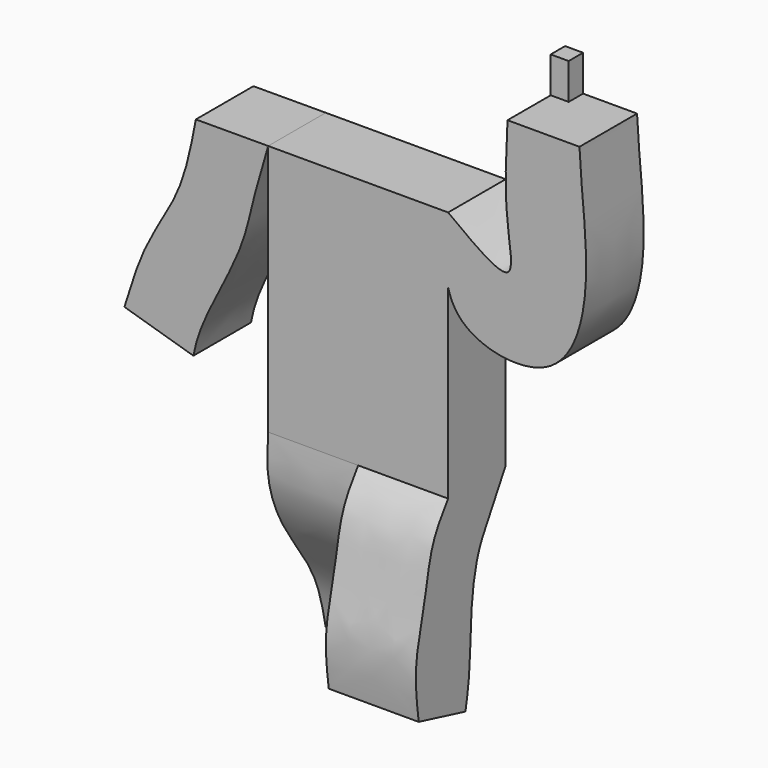
from build123d import *

# Parameters (mm, degrees)
F1_DEPTH = 8
F3_DEPTH = 10
F5_DEPTH = 10
F6_W     = 2
F6_H     = 4
F7_DEPTH = 2


with BuildPart() as f1:
    # F0 (on Front) → F1 (new body)
    with BuildSketch(Plane.XZ):
        Polygon((10, 14), (-10, 14), (-10, 13.9871324164), align=None)
        with BuildLine():
            Line((-10, 13.9871324164), (-10, 14))
            add(Edge.make_bspline(
                [(-10, 14), (-10.0013069916, 13.9957099885), (-10.0026139149, 13.9914199529), (-10.0039207687, 13.9871298939)],
                knots=[0, 0, 0, 0, 0.0005634153, 0.0005634153, 0.0005634153, 0.0005634153], degree=3))
            Line((-10.0039207687, 13.9871298939), (-10, 13.9871324164))
        make_face()
        with BuildLine():
            add(Edge.make_bspline(
                [(-10, 14), (-10.0013069916, 13.9957099885), (-10.0026139149, 13.9914199529), (-10.0039207687, 13.9871298939)],
                knots=[0, 0, 0, 0, 0.0005634153, 0.0005634153, 0.0005634153, 0.0005634153], degree=3))
            Line((-10, 14), (-18.0412381887, 13.9819588512))
            Line((-18.0412381887, 13.9819588512), (-10.0039207687, 13.9871298939))
        make_face()
        with BuildLine():
            add(Edge.make_bspline(
                [(16.5979396552, 25.1705870032), (16.4242079195, 21.7814034546), (16.1292929338, 16.0281597324), (17.954552315, 8.034475712), (12.8387475955, 11.8710784645), (10, 14)],
                knots=[0, 0, 0, 0, 0.3895409215, 0.6612577422, 1, 1, 1, 1], degree=3))
            Line((10, 14), (10, 6.6676748447))
            add(Edge.make_bspline(
                [(10, 6.6676748447), (10.2523378817, 5.6781345951), (12.0047533576, 2.0571975496), (22.7187939676, 0.2071940627), (26.2944872886, 12.0093761919), (24.7818586393, 20.5559387988), (24.5979396552, 25.1705870032)],
                knots=[0.1642768485, 0.1642768485, 0.1642768485, 0.1642768485, 0.2408562316, 0.4776886549, 0.7182430468, 1, 1, 1, 1], degree=3))
            Line((24.5979396552, 25.1705870032), (16.5979396552, 25.1705870032))
        make_face()
        with BuildLine():
            Line((10, 6.6676748447), (10, 14))
            add(Edge.make_bspline(
                [(10, 14), (9.7266030818, 11.3954202783), (9.4586888759, 8.790420511), (10, 6.6676748447)],
                knots=[0, 0, 0, 0, 0.1642768485, 0.1642768485, 0.1642768485, 0.1642768485], degree=3))
        make_face()
        with BuildLine():
            add(Edge.make_bspline(
                [(10, 14), (9.7266030818, 11.3954202783), (9.4586888759, 8.790420511), (10, 6.6676748447)],
                knots=[0, 0, 0, 0, 0.1642768485, 0.1642768485, 0.1642768485, 0.1642768485], degree=3))
            Line((10, 14), (-10, 13.9871324164))
            Line((-10, 13.9871324164), (-10, -14))
            Line((-10, -14), (10, -14))
            Line((10, -14), (10, 6.6676748447))
        make_face()
        with BuildLine():
            add(Edge.make_bspline(
                [(-10.0039207687, 13.9871298939), (-10.557530177, 12.1697751658), (-11.6304994418, 8.5580895587), (-12.7269597722, 3.2080619518), (-15.9483733573, -2.8154175848), (-17.9189211947, -6.9664320189), (-18.3122973873, -9.2296893574)],
                knots=[0.0005634153, 0.0005634153, 0.0005634153, 0.0005634153, 0.2392373891, 0.4737911443, 0.7359345398, 1, 1, 1, 1], degree=3))
            Line((-10.0039207687, 13.9871298939), (-18.0412381887, 13.9819588512))
            add(Edge.make_bspline(
                [(-25.9793829173, -6.9458768703), (-25.2539642188, -4.5676118012), (-23.8093664017, 0.1684620471), (-19.5153648693, 6.2164021065), (-18.5387466084, 11.3611326258), (-18.0412381887, 13.9819588512)],
                knots=[0, 0, 0, 0, 0.3310306201, 0.65921393, 1, 1, 1, 1], degree=3))
            Line((-25.9793829173, -6.9458768703), (-18.3122973873, -9.2296893574))
        make_face()
    extrude(amount=F1_DEPTH)

    # F2 (on face) → F3 (join)
    with BuildSketch(Plane(origin=(-10, 0, 0), x_dir=(0, -1, 0), z_dir=(-1, 0, 0))):
        with BuildLine():
            Line((8, -14), (0, -14))
            add(Edge.make_bspline(
                [(0, -14), (0.2045836759, -15.6157837158), (0.6192637374, -18.8902476344), (-2.6809411284, -22.8970011823), (-4.6665400492, -28.7619394429), (-5.2928585425, -32.41202967), (-5.5954085566, -34.1871318147)],
                knots=[0, 0, 0, 0, 0.2346269916, 0.4754883695, 0.745007012, 1, 1, 1, 1], degree=3))
            Line((-5.5954085566, -34.1871318147), (0, -36.3530965155))
            add(Edge.make_bspline(
                [(8, -14), (8.1062479665, -15.4020488735), (8.3373620016, -18.4518314863), (6.2753772925, -24.1836933573), (1.2807636539, -30.1416891817), (0.4114158447, -34.3578251248), (0, -36.3530965155)],
                knots=[0, 0, 0, 0, 0.2121639716, 0.4615060148, 0.7451596188, 1, 1, 1, 1], degree=3))
        make_face()
    extrude(amount=-F3_DEPTH)

    # F4 (on face) → F5 (join)
    with BuildSketch(Plane.YZ):
        with BuildLine():
            add(Edge.make_bspline(
                [(0, -14), (-0.8240515576, -15.4606959655), (-2.3272345442, -18.1252934548), (-4.0109662696, -20.975339063), (-4.9011507822, -25.8671770363), (-4.9008100664, -31.9777881879), (-5.3812911094, -34.640359184), (-5.592783913, -35.811856389)],
                knots=[0, 0, 0, 0, 0.2049146304, 0.3738081441, 0.5819768139, 0.8160801398, 1, 1, 1, 1], degree=3))
            Line((0, -14), (-8, -14))
            add(Edge.make_bspline(
                [(-8, -14), (-8.789860184, -15.0975567751), (-10.5069200527, -17.4835115686), (-11.2071319942, -23.284631647), (-12.8483158405, -28.5406582263), (-12.3418277002, -32.3002507673), (-12.0876291767, -34.1871318147)],
                knots=[0, 0, 0, 0, 0.2229102117, 0.4845796593, 0.741318544, 1, 1, 1, 1], degree=3))
            Line((-12.0876291767, -34.1871318147), (-5.592783913, -35.811856389))
        make_face()
    extrude(amount=F5_DEPTH)

    # F6 (on face) → F7 (join)
    with BuildSketch(Plane(origin=(0, 0, 0), x_dir=(-1, 0, 0), z_dir=(0, 1, 0))):
        with Locations((-17.5979396552, 27.1705870032)):
            Rectangle(F6_W, F6_H)
    extrude(amount=-F7_DEPTH)


solid = f1.part
